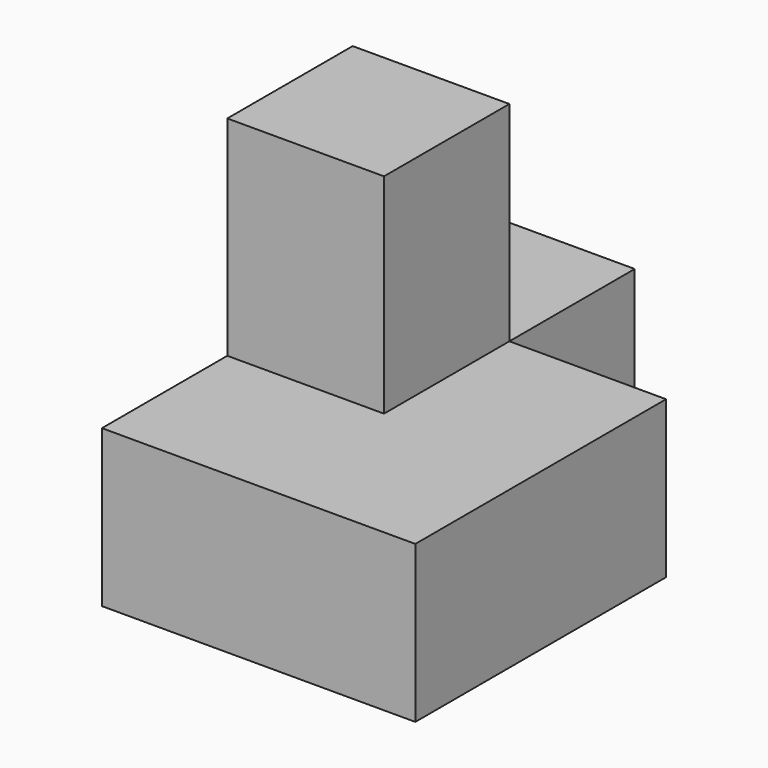
from build123d import *

# Parameters (mm, degrees)
F0_W     = 19.05
F0_H     = 19.050003
F1_DEPTH = 19.05
F2_W     = 19.05
F2_H     = 19.05
F3_DEPTH = 25.4


with BuildPart() as f1:
    # F0 (on Top) → F1 (new body)
    with BuildSketch(Plane.XY):
        Polygon((0, 38.1), (0, 0), (38.1, 0), (38.1, 38.1), (19.05, 38.1), align=None)
        with Locations((9.525, 47.625001)):
            Rectangle(F0_W, F0_H)
    extrude(amount=F1_DEPTH)

    # F2 (on face) → F3 (join)
    with BuildSketch(Plane.XY.offset(19.05)):
        with Locations((9.525, 28.575)):
            Rectangle(F2_W, F2_H)
    extrude(amount=F3_DEPTH)


solid = f1.part
